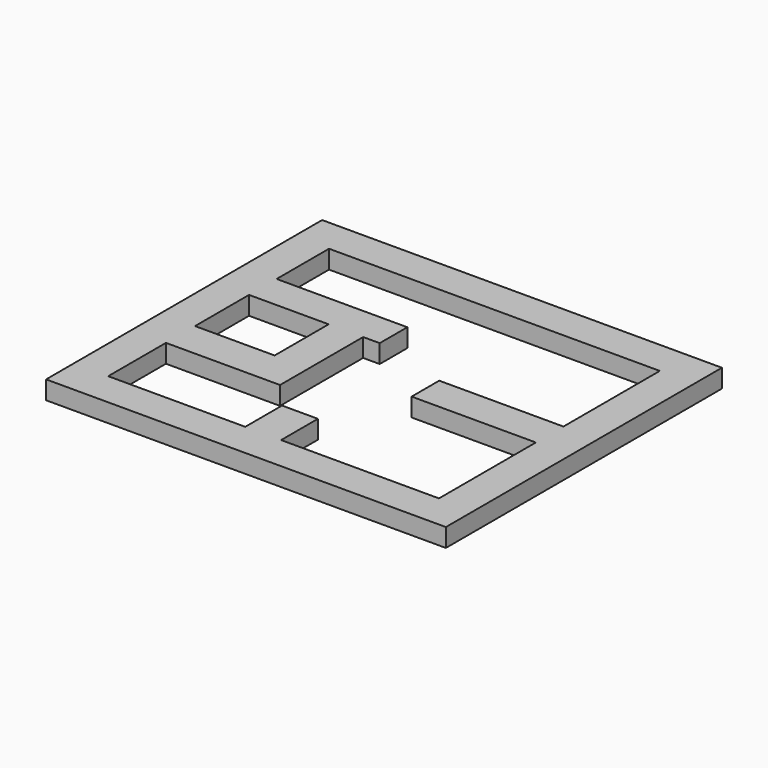
from build123d import *

# Parameters (mm, degrees)
F0_W     = 8690
F0_H     = 7500
F0_W_2   = 1730
F0_H_2   = 1467.718564
F1_DEPTH = 400


with BuildPart() as f1:
    # F0 (on Top) → F1 (new body)
    with BuildSketch(Plane.XY):
        with Locations((4345, 3750)):
            Rectangle(F0_W, F0_H)
        with Locations((1615, 3842.943449)):
            Rectangle(F0_W_2, F0_H_2, mode=Mode.SUBTRACT)
        Polygon((3728.670418, 750), (750, 750), (750, 2319.084167), (3230, 2319.084167), (3230, 4576.802731), (3590, 4576.802731), (3590, 5326.802731), (750, 5326.802731), (750, 6750), (7940, 6750), (7940, 4131.539822), (5240, 4131.539822), (5240, 3381.539822), (7940, 3381.539822), (7940, 750), (4508.670418, 750), (4508.670418, 1750), (3728.670418, 1750), align=None, mode=Mode.SUBTRACT)
    extrude(amount=F1_DEPTH)


solid = f1.part
